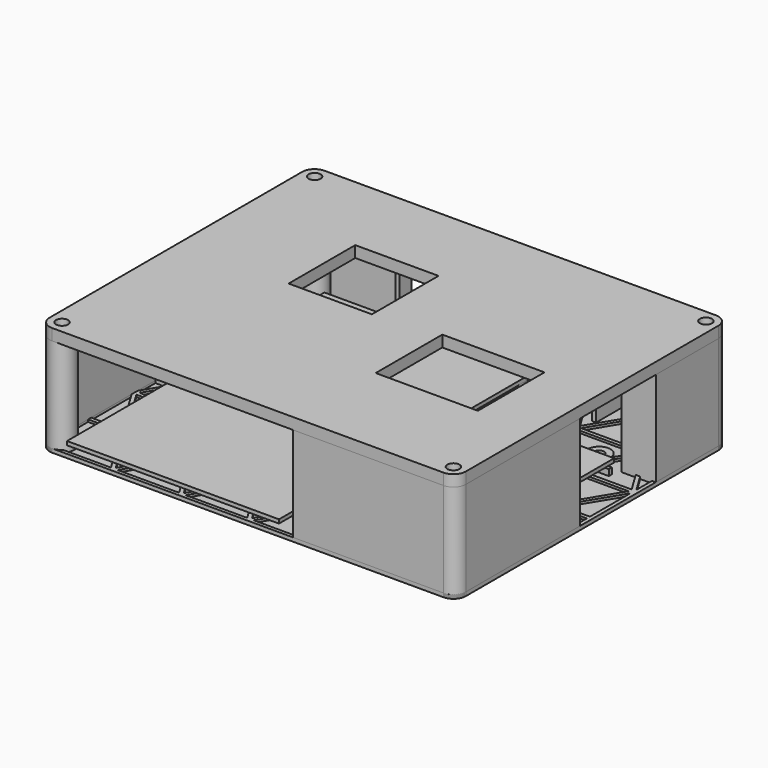
from build123d import *

# Parameters (mm, degrees)
SKETCH001_R                = 3.3
SKETCH001_R_2              = 1.3
EXTRUDE001_DEPTH           = 3
BOX_W                      = 32
BOX_H                      = 43
BOX_DEPTH                  = 1
BOX001_W                   = 56
BOX001_H                   = 85
BOX001_DEPTH               = 1
SKETCH002_R                = 1.3
EXTRUDE002_DEPTH           = 2
SKETCH004_R                = 3.3
SKETCH004_R_2              = 1.3
EXTRUDE004_DEPTH           = 26
EXTRUDE005_DEPTH           = 26
EXTRUDE010_DEPTH           = 5
SKETCH007_R                = 1.6
SKETCH007_W                = 22
SKETCH007_H                = 22
SKETCH007_W_2              = 27
EXTRUDE008_DEPTH           = 10
SKETCH006_W                = 110
SKETCH006_H                = 90
EXTRUDE006_DEPTH           = 0.4
SKETCH008_R                = 3.3
SKETCH008_W                = 24
SKETCH008_H                = 24
SKETCH008_W_2              = 29
EXTRUDE009_DEPTH           = 3
OBJ1            = 90
OBJ2            = 110
EXTRUDE007_DEPTH           = 2.6
EXTRUDE007_PLACEMENT_ANGLE = 90
SKETCH003_R                = 1.3
EXTRUDE003_DEPTH           = 10
SKETCH_W                   = 110
SKETCH_H                   = 90
EXTRUDE_DEPTH              = 0.4
OBJ3               = 90
OBJ4               = 110
OBJ5              = 0.6
OBJ6    = 90


with BuildPart() as extrude001:
    # Sketch001 → Extrude001 (new body)
    with BuildSketch(Plane.XY.offset(1)):
        with Locations((-44, 36)):
            Circle(SKETCH001_R)
        with Locations((-44, 36)):
            Circle(SKETCH001_R_2, mode=Mode.SUBTRACT)
        with Locations((5, 36)):
            Circle(SKETCH001_R)
        with Locations((5, 36)):
            Circle(SKETCH001_R_2, mode=Mode.SUBTRACT)
        with Locations((-44, -22)):
            Circle(SKETCH001_R)
        with Locations((-44, -22)):
            Circle(SKETCH001_R_2, mode=Mode.SUBTRACT)
        with Locations((5, -22)):
            Circle(SKETCH001_R)
        with Locations((5, -22)):
            Circle(SKETCH001_R_2, mode=Mode.SUBTRACT)
    extrude(amount=EXTRUDE001_DEPTH)


with BuildPart() as extrude001_1:
    # Extrude001 placement: moved
    add(extrude001.part.moved(Location((0, 0, -1))))


with BuildPart() as cube:
    # Box → Box (new body)
    with BuildSketch(Plane(origin=(12, -22, 2), x_dir=(1, 0, 0), z_dir=(0, 0, 1))):
        with Locations((16, 21.5)):
            Rectangle(BOX_W, BOX_H)
    extrude(amount=BOX_DEPTH)


with BuildPart() as cube001:
    # Box001 → Box001 (new body)
    with BuildSketch(Plane(origin=(-47.75, -45, 3), x_dir=(1, 0, 0), z_dir=(0, 0, 1))):
        with Locations((28, 42.5)):
            Rectangle(BOX001_W, BOX001_H)
    extrude(amount=BOX001_DEPTH)


with BuildPart() as extrude002:
    # Sketch002 → Extrude002 (new body)
    with BuildSketch(Plane.XY.offset(3)):
        with BuildLine():
            Line((30, 19), (30, 18))
            Line((30, 18), (45, 18))
            Line((45, 18), (45, 19))
            Line((45, 19), (42, 19))
            Line((42, 19), (42, 22.3))
            ThreePointArc((42, 22.3), (39, 25.3), (36, 22.3))
            Line((36, 19), (36, 22.3))
            Line((30, 19), (36, 19))
        make_face()
        with Locations((39, 22.3)):
            Circle(SKETCH002_R, mode=Mode.SUBTRACT)
        with BuildLine():
            Line((13, -19), (45, -19))
            Line((45, -19), (45, -20))
            Line((45, -20), (22, -20))
            Line((22, -20), (22, -23.3))
            ThreePointArc((16, -23.3), (19, -26.3), (22, -23.3))
            Line((16, -23.3), (16, -20))
            Line((16, -20), (13, -20))
            Line((13, -20), (13, -19))
        make_face()
        with Locations((19, -23.3)):
            Circle(SKETCH002_R, mode=Mode.SUBTRACT)
    extrude(amount=EXTRUDE002_DEPTH)


with BuildPart() as extrude002_1:
    # Extrude002 placement: moved
    add(extrude002.part.moved(Location((0, 0, -3))))


with BuildPart() as extrude004:
    # Sketch004 → Extrude004 (new body)
    with BuildSketch(Plane.XY.offset(1)):
        with Locations((-51.7, -41.7)):
            Circle(SKETCH004_R)
        with Locations((-51.7, -41.7)):
            Circle(SKETCH004_R_2, mode=Mode.SUBTRACT)
        with Locations((-51.7, 41.7)):
            Circle(SKETCH004_R)
        with Locations((-51.7, 41.7)):
            Circle(SKETCH004_R_2, mode=Mode.SUBTRACT)
        with Locations((51.7, -41.7)):
            Circle(SKETCH004_R)
        with Locations((51.7, -41.7)):
            Circle(SKETCH004_R_2, mode=Mode.SUBTRACT)
        with Locations((51.7, 41.7)):
            Circle(SKETCH004_R)
        with Locations((51.7, 41.7)):
            Circle(SKETCH004_R_2, mode=Mode.SUBTRACT)
    extrude(amount=EXTRUDE004_DEPTH)


with BuildPart() as extrude004_1:
    # Extrude004 placement: moved
    add(extrude004.part.moved(Location((0, 0, -1))))


with BuildPart() as extrude005:
    # Sketch005 → Extrude005 (new body)
    with BuildSketch(Plane.XY.offset(1)):
        Polygon((-55, -41.7), (-55, 20), (-49, 20), (-49, 19), (-54, 19), (-54, -7), (-49, -7), (-49, -8), (-54, -8), (-54, -41.7), align=None)
        Polygon((-51.7, 45), (-28.7, 45), (-28.7, 41), (-29.7, 41), (-29.7, 44), (-51.7, 44), align=None)
        Polygon((-11, 45), (12, 45), (12, 35), (11, 35), (11, 44), (-10, 44), (-10, 41), (-11, 41), align=None)
        Polygon((27, 45), (51.7, 45), (51.7, 44), (28, 44), (28, 35), (27, 35), align=None)
        Polygon((55, 41.7), (55, 21), (46, 21), (46, 22), (54, 22), (54, 41.7), align=None)
        Polygon((55, -4), (55, -41.7), (54, -41.7), (54, -5), (46, -5), (46, -4), align=None)
        Polygon((51.7, -45), (12, -45), (12, -35), (13, -35), (13, -44), (51.7, -44), align=None)
    extrude(amount=EXTRUDE005_DEPTH)


with BuildPart() as extrude005_1:
    # Extrude005 placement: moved
    add(extrude005.part.moved(Location((0, 0, -1))))


with BuildPart() as border:
    # Sketch009 → Extrude010 (new body)
    with BuildSketch(Plane.XY.offset(29)):
        with BuildLine():
            ThreePointArc((55, 41.7), (54.033452, 44.033452), (51.7, 45))
            Line((51.7, 48), (51.7, 45))
            Line((51.7, 48), (58, 48))
            Line((58, 48), (58, 41.7))
            Line((58, 41.7), (55, 41.7))
        make_face()
        with BuildLine():
            ThreePointArc((51.7, -45), (54.033452, -44.033452), (55, -41.7))
            Line((58, -41.7), (55, -41.7))
            Line((58, -41.7), (58, -48))
            Line((58, -48), (51.7, -48))
            Line((51.7, -48), (51.7, -45))
        make_face()
        with BuildLine():
            ThreePointArc((-51.7, 45), (-54.033452, 44.033452), (-55, 41.7))
            Line((-58, 41.7), (-55, 41.7))
            Line((-58, 48), (-58, 41.7))
            Line((-51.7, 48), (-58, 48))
            Line((-51.7, 48), (-51.7, 45))
        make_face()
        with BuildLine():
            ThreePointArc((-55, -41.7), (-54.033452, -44.033452), (-51.7, -45))
            Line((-51.7, -48), (-51.7, -45))
            Line((-51.7, -48), (-58, -48))
            Line((-58, -48), (-58, -41.7))
            Line((-58, -41.7), (-55, -41.7))
        make_face()
    extrude(amount=-EXTRUDE010_DEPTH)


with BuildPart() as body:
    # Body base: copy of border
    add(border.part)


with BuildPart() as body_1:
    # Body placement: moved
    add(body.part.moved(Location((0, 0, 1))))


with BuildPart() as fusion001:
    # Sketch007 → Extrude008 (new body)
    with BuildSketch(Plane.XY.offset(29)):
        with Locations((-51.7, 41.7)):
            Circle(SKETCH007_R)
        with Locations((-51.7, -41.7)):
            Circle(SKETCH007_R)
        with Locations((51.7, 41.7)):
            Circle(SKETCH007_R)
        with Locations((51.7, -41.7)):
            Circle(SKETCH007_R)
        with Locations((-15, 12)):
            Rectangle(SKETCH007_W, SKETCH007_H)
        with Locations((26.5, -8)):
            Rectangle(SKETCH007_W_2, SKETCH007_H)
    extrude(amount=-EXTRUDE008_DEPTH)


with BuildPart() as fusion001_1:
    # Extrude008 placement: moved
    add(fusion001.part.moved(Location((0, 0, 1))))

    # Fusion001: union Body
    add(body_1.part)


with BuildPart() as extrude006:
    # Sketch006 → Extrude006 (new body)
    with BuildSketch(Plane.XY.offset(27)):
        Rectangle(SKETCH006_W, SKETCH006_H)
    extrude(amount=-EXTRUDE006_DEPTH)


with BuildPart() as extrude006_1:
    # Extrude006 placement: moved
    add(extrude006.part.moved(Location((0, 0, 2))))


with BuildPart() as extrude009:
    # Sketch008 → Extrude009 (new body)
    with BuildSketch(Plane.XY.offset(29)):
        with Locations((-51.7, 41.7)):
            Circle(SKETCH008_R)
        with Locations((-51.7, -41.7)):
            Circle(SKETCH008_R)
        with Locations((51.7, 41.7)):
            Circle(SKETCH008_R)
        with Locations((51.7, -41.7)):
            Circle(SKETCH008_R)
        with Locations((-15, 12)):
            Rectangle(SKETCH008_W, SKETCH008_H)
        with Locations((26.5, -8)):
            Rectangle(SKETCH008_W_2, SKETCH008_H)
    extrude(amount=-EXTRUDE009_DEPTH)


with BuildPart() as top:
    with BuildSketch(Plane.XY.offset(20)):
        with Locations((45, 55)):
            Rectangle(OBJ1, OBJ2)
        Polygon((1.4, 1), (14.766667, 1), (14.766667, 9.133975), align=None, mode=Mode.SUBTRACT)
        Polygon((1.4, 109), (14.766667, 109), (14.766667, 100.866025), align=None, mode=Mode.SUBTRACT)
        Polygon((29.133333, 1), (15.766667, 1), (15.766667, 9.133975), align=None, mode=Mode.SUBTRACT)
        Polygon((29.133333, 109), (15.766667, 109), (15.766667, 100.866025), align=None, mode=Mode.SUBTRACT)
        Polygon((31.133333, 1), (44.5, 1), (44.5, 9.133975), align=None, mode=Mode.SUBTRACT)
        Polygon((31.133333, 109), (44.5, 109), (44.5, 100.866025), align=None, mode=Mode.SUBTRACT)
        Polygon((58.866667, 1), (45.5, 1), (45.5, 9.133975), align=None, mode=Mode.SUBTRACT)
        Polygon((58.866667, 109), (45.5, 109), (45.5, 100.866025), align=None, mode=Mode.SUBTRACT)
        Polygon((60.866667, 1), (74.233333, 1), (74.233333, 9.133975), align=None, mode=Mode.SUBTRACT)
        Polygon((60.866667, 109), (74.233333, 109), (74.233333, 100.866025), align=None, mode=Mode.SUBTRACT)
        Polygon((88.6, 1), (75.233333, 1), (75.233333, 9.133975), align=None, mode=Mode.SUBTRACT)
        Polygon((88.6, 109), (75.233333, 109), (75.233333, 100.866025), align=None, mode=Mode.SUBTRACT)
        Polygon((0.9, 1.866025), (0.9, 18.133975), (14.266667, 10), align=None, mode=Mode.SUBTRACT)
        Polygon((14.766667, 10.866025), (14.766667, 27.133975), (1.4, 19), align=None, mode=Mode.SUBTRACT)
        Polygon((29.633333, 1.866025), (29.633333, 18.133975), (16.266667, 10), align=None, mode=Mode.SUBTRACT)
        Polygon((15.766667, 10.866025), (15.766667, 27.133975), (29.133333, 19), align=None, mode=Mode.SUBTRACT)
        Polygon((30.633333, 1.866025), (30.633333, 18.133975), (44, 10), align=None, mode=Mode.SUBTRACT)
        Polygon((44.5, 10.866025), (44.5, 27.133975), (31.133333, 19), align=None, mode=Mode.SUBTRACT)
        Polygon((59.366667, 1.866025), (59.366667, 18.133975), (46, 10), align=None, mode=Mode.SUBTRACT)
        Polygon((45.5, 10.866025), (45.5, 27.133975), (58.866667, 19), align=None, mode=Mode.SUBTRACT)
        Polygon((60.366667, 1.866025), (60.366667, 18.133975), (73.733333, 10), align=None, mode=Mode.SUBTRACT)
        Polygon((74.233333, 10.866025), (74.233333, 27.133975), (60.866667, 19), align=None, mode=Mode.SUBTRACT)
        Polygon((89.1, 1.866025), (89.1, 18.133975), (75.733333, 10), align=None, mode=Mode.SUBTRACT)
        Polygon((75.233333, 10.866025), (75.233333, 27.133975), (88.6, 19), align=None, mode=Mode.SUBTRACT)
        Polygon((0.9, 19.866025), (0.9, 36.133975), (14.266667, 28), align=None, mode=Mode.SUBTRACT)
        Polygon((14.766667, 28.866025), (14.766667, 45.133975), (1.4, 37), align=None, mode=Mode.SUBTRACT)
        Polygon((29.633333, 19.866025), (29.633333, 36.133975), (16.266667, 28), align=None, mode=Mode.SUBTRACT)
        Polygon((15.766667, 28.866025), (15.766667, 45.133975), (29.133333, 37), align=None, mode=Mode.SUBTRACT)
        Polygon((30.633333, 19.866025), (30.633333, 36.133975), (44, 28), align=None, mode=Mode.SUBTRACT)
        Polygon((44.5, 28.866025), (44.5, 45.133975), (31.133333, 37), align=None, mode=Mode.SUBTRACT)
        Polygon((59.366667, 19.866025), (59.366667, 36.133975), (46, 28), align=None, mode=Mode.SUBTRACT)
        Polygon((45.5, 28.866025), (45.5, 45.133975), (58.866667, 37), align=None, mode=Mode.SUBTRACT)
        Polygon((60.366667, 19.866025), (60.366667, 36.133975), (73.733333, 28), align=None, mode=Mode.SUBTRACT)
        Polygon((74.233333, 28.866025), (74.233333, 45.133975), (60.866667, 37), align=None, mode=Mode.SUBTRACT)
        Polygon((89.1, 19.866025), (89.1, 36.133975), (75.733333, 28), align=None, mode=Mode.SUBTRACT)
        Polygon((75.233333, 28.866025), (75.233333, 45.133975), (88.6, 37), align=None, mode=Mode.SUBTRACT)
        Polygon((0.9, 37.866025), (0.9, 54.133975), (14.266667, 46), align=None, mode=Mode.SUBTRACT)
        Polygon((14.766667, 46.866025), (14.766667, 63.133975), (1.4, 55), align=None, mode=Mode.SUBTRACT)
        Polygon((29.633333, 37.866025), (29.633333, 54.133975), (16.266667, 46), align=None, mode=Mode.SUBTRACT)
        Polygon((15.766667, 46.866025), (15.766667, 63.133975), (29.133333, 55), align=None, mode=Mode.SUBTRACT)
        Polygon((30.633333, 37.866025), (30.633333, 54.133975), (44, 46), align=None, mode=Mode.SUBTRACT)
        Polygon((44.5, 46.866025), (44.5, 63.133975), (31.133333, 55), align=None, mode=Mode.SUBTRACT)
        Polygon((59.366667, 37.866025), (59.366667, 54.133975), (46, 46), align=None, mode=Mode.SUBTRACT)
        Polygon((45.5, 46.866025), (45.5, 63.133975), (58.866667, 55), align=None, mode=Mode.SUBTRACT)
        Polygon((60.366667, 37.866025), (60.366667, 54.133975), (73.733333, 46), align=None, mode=Mode.SUBTRACT)
        Polygon((74.233333, 46.866025), (74.233333, 63.133975), (60.866667, 55), align=None, mode=Mode.SUBTRACT)
        Polygon((89.1, 37.866025), (89.1, 54.133975), (75.733333, 46), align=None, mode=Mode.SUBTRACT)
        Polygon((75.233333, 46.866025), (75.233333, 63.133975), (88.6, 55), align=None, mode=Mode.SUBTRACT)
        Polygon((0.9, 55.866025), (0.9, 72.133975), (14.266667, 64), align=None, mode=Mode.SUBTRACT)
        Polygon((14.766667, 64.866025), (14.766667, 81.133975), (1.4, 73), align=None, mode=Mode.SUBTRACT)
        Polygon((29.633333, 55.866025), (29.633333, 72.133975), (16.266667, 64), align=None, mode=Mode.SUBTRACT)
        Polygon((15.766667, 64.866025), (15.766667, 81.133975), (29.133333, 73), align=None, mode=Mode.SUBTRACT)
        Polygon((30.633333, 55.866025), (30.633333, 72.133975), (44, 64), align=None, mode=Mode.SUBTRACT)
        Polygon((44.5, 64.866025), (44.5, 81.133975), (31.133333, 73), align=None, mode=Mode.SUBTRACT)
        Polygon((59.366667, 55.866025), (59.366667, 72.133975), (46, 64), align=None, mode=Mode.SUBTRACT)
        Polygon((45.5, 64.866025), (45.5, 81.133975), (58.866667, 73), align=None, mode=Mode.SUBTRACT)
        Polygon((60.366667, 55.866025), (60.366667, 72.133975), (73.733333, 64), align=None, mode=Mode.SUBTRACT)
        Polygon((74.233333, 64.866025), (74.233333, 81.133975), (60.866667, 73), align=None, mode=Mode.SUBTRACT)
        Polygon((89.1, 55.866025), (89.1, 72.133975), (75.733333, 64), align=None, mode=Mode.SUBTRACT)
        Polygon((75.233333, 64.866025), (75.233333, 81.133975), (88.6, 73), align=None, mode=Mode.SUBTRACT)
        Polygon((0.9, 73.866025), (0.9, 90.133975), (14.266667, 82), align=None, mode=Mode.SUBTRACT)
        Polygon((14.766667, 82.866025), (14.766667, 99.133975), (1.4, 91), align=None, mode=Mode.SUBTRACT)
        Polygon((29.633333, 73.866025), (29.633333, 90.133975), (16.266667, 82), align=None, mode=Mode.SUBTRACT)
        Polygon((15.766667, 82.866025), (15.766667, 99.133975), (29.133333, 91), align=None, mode=Mode.SUBTRACT)
        Polygon((30.633333, 73.866025), (30.633333, 90.133975), (44, 82), align=None, mode=Mode.SUBTRACT)
        Polygon((44.5, 82.866025), (44.5, 99.133975), (31.133333, 91), align=None, mode=Mode.SUBTRACT)
        Polygon((59.366667, 73.866025), (59.366667, 90.133975), (46, 82), align=None, mode=Mode.SUBTRACT)
        Polygon((45.5, 82.866025), (45.5, 99.133975), (58.866667, 91), align=None, mode=Mode.SUBTRACT)
        Polygon((60.366667, 73.866025), (60.366667, 90.133975), (73.733333, 82), align=None, mode=Mode.SUBTRACT)
        Polygon((74.233333, 82.866025), (74.233333, 99.133975), (60.866667, 91), align=None, mode=Mode.SUBTRACT)
        Polygon((89.1, 73.866025), (89.1, 90.133975), (75.733333, 82), align=None, mode=Mode.SUBTRACT)
        Polygon((75.233333, 82.866025), (75.233333, 99.133975), (88.6, 91), align=None, mode=Mode.SUBTRACT)
        Polygon((0.9, 91.866025), (0.9, 108.133975), (14.266667, 100), align=None, mode=Mode.SUBTRACT)
        Polygon((29.633333, 91.866025), (29.633333, 108.133975), (16.266667, 100), align=None, mode=Mode.SUBTRACT)
        Polygon((30.633333, 91.866025), (30.633333, 108.133975), (44, 100), align=None, mode=Mode.SUBTRACT)
        Polygon((59.366667, 91.866025), (59.366667, 108.133975), (46, 100), align=None, mode=Mode.SUBTRACT)
        Polygon((60.366667, 91.866025), (60.366667, 108.133975), (73.733333, 100), align=None, mode=Mode.SUBTRACT)
        Polygon((89.1, 91.866025), (89.1, 108.133975), (75.733333, 100), align=None, mode=Mode.SUBTRACT)
    extrude(amount=-EXTRUDE007_DEPTH)


with BuildPart() as top_1:
    # Extrude007 placement: moved
    add(top.part.moved(Location((-55, 45, 8.6))).rotate(Axis((-55, 45, 8.6), (0, 0, -1)), EXTRUDE007_PLACEMENT_ANGLE))

    # Fusion: union Extrude006, Extrude009
    add(extrude006_1.part)
    add(extrude009.part)

    # Cut: cut Fusion001
    add(fusion001_1.part, mode=Mode.SUBTRACT)


with BuildPart() as body001:
    # Body001 base: copy of border
    add(border.part)


with BuildPart() as body001_1:
    # Body001 placement: moved
    add(body001.part.moved(Location((0, 0, -26))))


with BuildPart() as fusion002:
    # Sketch003 → Extrude003 (new body)
    with BuildSketch(Plane.XY.offset(1)):
        with Locations((-44, 36)):
            Circle(SKETCH003_R)
        with Locations((5, 36)):
            Circle(SKETCH003_R)
        with Locations((-44, -22)):
            Circle(SKETCH003_R)
        with Locations((5, -22)):
            Circle(SKETCH003_R)
        with Locations((19, -23.3)):
            Circle(SKETCH003_R)
        with Locations((39, 22.3)):
            Circle(SKETCH003_R)
    extrude(amount=-EXTRUDE003_DEPTH)


with BuildPart() as fusion002_1:
    # Extrude003 placement: moved
    add(fusion002.part.moved(Location((0, 0, 5))))

    # Fusion002: union Body001
    add(body001_1.part)


with BuildPart() as extrude_body:
    # Sketch → Extrude (new body)
    with BuildSketch(Plane.XY):
        Rectangle(SKETCH_W, SKETCH_H)
    extrude(amount=EXTRUDE_DEPTH)


with BuildPart() as cut001:
    with BuildSketch(Plane.XY.offset(20)):
        with Locations((45, 55)):
            Rectangle(OBJ3, OBJ4)
        Polygon((1.4, 1), (14.766667, 1), (14.766667, 9.133975), align=None, mode=Mode.SUBTRACT)
        Polygon((1.4, 109), (14.766667, 109), (14.766667, 100.866025), align=None, mode=Mode.SUBTRACT)
        Polygon((29.133333, 1), (15.766667, 1), (15.766667, 9.133975), align=None, mode=Mode.SUBTRACT)
        Polygon((29.133333, 109), (15.766667, 109), (15.766667, 100.866025), align=None, mode=Mode.SUBTRACT)
        Polygon((31.133333, 1), (44.5, 1), (44.5, 9.133975), align=None, mode=Mode.SUBTRACT)
        Polygon((31.133333, 109), (44.5, 109), (44.5, 100.866025), align=None, mode=Mode.SUBTRACT)
        Polygon((58.866667, 1), (45.5, 1), (45.5, 9.133975), align=None, mode=Mode.SUBTRACT)
        Polygon((58.866667, 109), (45.5, 109), (45.5, 100.866025), align=None, mode=Mode.SUBTRACT)
        Polygon((60.866667, 1), (74.233333, 1), (74.233333, 9.133975), align=None, mode=Mode.SUBTRACT)
        Polygon((60.866667, 109), (74.233333, 109), (74.233333, 100.866025), align=None, mode=Mode.SUBTRACT)
        Polygon((88.6, 1), (75.233333, 1), (75.233333, 9.133975), align=None, mode=Mode.SUBTRACT)
        Polygon((88.6, 109), (75.233333, 109), (75.233333, 100.866025), align=None, mode=Mode.SUBTRACT)
        Polygon((0.9, 1.866025), (0.9, 18.133975), (14.266667, 10), align=None, mode=Mode.SUBTRACT)
        Polygon((14.766667, 10.866025), (14.766667, 27.133975), (1.4, 19), align=None, mode=Mode.SUBTRACT)
        Polygon((29.633333, 1.866025), (29.633333, 18.133975), (16.266667, 10), align=None, mode=Mode.SUBTRACT)
        Polygon((15.766667, 10.866025), (15.766667, 27.133975), (29.133333, 19), align=None, mode=Mode.SUBTRACT)
        Polygon((30.633333, 1.866025), (30.633333, 18.133975), (44, 10), align=None, mode=Mode.SUBTRACT)
        Polygon((44.5, 10.866025), (44.5, 27.133975), (31.133333, 19), align=None, mode=Mode.SUBTRACT)
        Polygon((59.366667, 1.866025), (59.366667, 18.133975), (46, 10), align=None, mode=Mode.SUBTRACT)
        Polygon((45.5, 10.866025), (45.5, 27.133975), (58.866667, 19), align=None, mode=Mode.SUBTRACT)
        Polygon((60.366667, 1.866025), (60.366667, 18.133975), (73.733333, 10), align=None, mode=Mode.SUBTRACT)
        Polygon((74.233333, 10.866025), (74.233333, 27.133975), (60.866667, 19), align=None, mode=Mode.SUBTRACT)
        Polygon((89.1, 1.866025), (89.1, 18.133975), (75.733333, 10), align=None, mode=Mode.SUBTRACT)
        Polygon((75.233333, 10.866025), (75.233333, 27.133975), (88.6, 19), align=None, mode=Mode.SUBTRACT)
        Polygon((0.9, 19.866025), (0.9, 36.133975), (14.266667, 28), align=None, mode=Mode.SUBTRACT)
        Polygon((14.766667, 28.866025), (14.766667, 45.133975), (1.4, 37), align=None, mode=Mode.SUBTRACT)
        Polygon((29.633333, 19.866025), (29.633333, 36.133975), (16.266667, 28), align=None, mode=Mode.SUBTRACT)
        Polygon((15.766667, 28.866025), (15.766667, 45.133975), (29.133333, 37), align=None, mode=Mode.SUBTRACT)
        Polygon((30.633333, 19.866025), (30.633333, 36.133975), (44, 28), align=None, mode=Mode.SUBTRACT)
        Polygon((44.5, 28.866025), (44.5, 45.133975), (31.133333, 37), align=None, mode=Mode.SUBTRACT)
        Polygon((59.366667, 19.866025), (59.366667, 36.133975), (46, 28), align=None, mode=Mode.SUBTRACT)
        Polygon((45.5, 28.866025), (45.5, 45.133975), (58.866667, 37), align=None, mode=Mode.SUBTRACT)
        Polygon((60.366667, 19.866025), (60.366667, 36.133975), (73.733333, 28), align=None, mode=Mode.SUBTRACT)
        Polygon((74.233333, 28.866025), (74.233333, 45.133975), (60.866667, 37), align=None, mode=Mode.SUBTRACT)
        Polygon((89.1, 19.866025), (89.1, 36.133975), (75.733333, 28), align=None, mode=Mode.SUBTRACT)
        Polygon((75.233333, 28.866025), (75.233333, 45.133975), (88.6, 37), align=None, mode=Mode.SUBTRACT)
        Polygon((0.9, 37.866025), (0.9, 54.133975), (14.266667, 46), align=None, mode=Mode.SUBTRACT)
        Polygon((14.766667, 46.866025), (14.766667, 63.133975), (1.4, 55), align=None, mode=Mode.SUBTRACT)
        Polygon((29.633333, 37.866025), (29.633333, 54.133975), (16.266667, 46), align=None, mode=Mode.SUBTRACT)
        Polygon((15.766667, 46.866025), (15.766667, 63.133975), (29.133333, 55), align=None, mode=Mode.SUBTRACT)
        Polygon((30.633333, 37.866025), (30.633333, 54.133975), (44, 46), align=None, mode=Mode.SUBTRACT)
        Polygon((44.5, 46.866025), (44.5, 63.133975), (31.133333, 55), align=None, mode=Mode.SUBTRACT)
        Polygon((59.366667, 37.866025), (59.366667, 54.133975), (46, 46), align=None, mode=Mode.SUBTRACT)
        Polygon((45.5, 46.866025), (45.5, 63.133975), (58.866667, 55), align=None, mode=Mode.SUBTRACT)
        Polygon((60.366667, 37.866025), (60.366667, 54.133975), (73.733333, 46), align=None, mode=Mode.SUBTRACT)
        Polygon((74.233333, 46.866025), (74.233333, 63.133975), (60.866667, 55), align=None, mode=Mode.SUBTRACT)
        Polygon((89.1, 37.866025), (89.1, 54.133975), (75.733333, 46), align=None, mode=Mode.SUBTRACT)
        Polygon((75.233333, 46.866025), (75.233333, 63.133975), (88.6, 55), align=None, mode=Mode.SUBTRACT)
        Polygon((0.9, 55.866025), (0.9, 72.133975), (14.266667, 64), align=None, mode=Mode.SUBTRACT)
        Polygon((14.766667, 64.866025), (14.766667, 81.133975), (1.4, 73), align=None, mode=Mode.SUBTRACT)
        Polygon((29.633333, 55.866025), (29.633333, 72.133975), (16.266667, 64), align=None, mode=Mode.SUBTRACT)
        Polygon((15.766667, 64.866025), (15.766667, 81.133975), (29.133333, 73), align=None, mode=Mode.SUBTRACT)
        Polygon((30.633333, 55.866025), (30.633333, 72.133975), (44, 64), align=None, mode=Mode.SUBTRACT)
        Polygon((44.5, 64.866025), (44.5, 81.133975), (31.133333, 73), align=None, mode=Mode.SUBTRACT)
        Polygon((59.366667, 55.866025), (59.366667, 72.133975), (46, 64), align=None, mode=Mode.SUBTRACT)
        Polygon((45.5, 64.866025), (45.5, 81.133975), (58.866667, 73), align=None, mode=Mode.SUBTRACT)
        Polygon((60.366667, 55.866025), (60.366667, 72.133975), (73.733333, 64), align=None, mode=Mode.SUBTRACT)
        Polygon((74.233333, 64.866025), (74.233333, 81.133975), (60.866667, 73), align=None, mode=Mode.SUBTRACT)
        Polygon((89.1, 55.866025), (89.1, 72.133975), (75.733333, 64), align=None, mode=Mode.SUBTRACT)
        Polygon((75.233333, 64.866025), (75.233333, 81.133975), (88.6, 73), align=None, mode=Mode.SUBTRACT)
        Polygon((0.9, 73.866025), (0.9, 90.133975), (14.266667, 82), align=None, mode=Mode.SUBTRACT)
        Polygon((14.766667, 82.866025), (14.766667, 99.133975), (1.4, 91), align=None, mode=Mode.SUBTRACT)
        Polygon((29.633333, 73.866025), (29.633333, 90.133975), (16.266667, 82), align=None, mode=Mode.SUBTRACT)
        Polygon((15.766667, 82.866025), (15.766667, 99.133975), (29.133333, 91), align=None, mode=Mode.SUBTRACT)
        Polygon((30.633333, 73.866025), (30.633333, 90.133975), (44, 82), align=None, mode=Mode.SUBTRACT)
        Polygon((44.5, 82.866025), (44.5, 99.133975), (31.133333, 91), align=None, mode=Mode.SUBTRACT)
        Polygon((59.366667, 73.866025), (59.366667, 90.133975), (46, 82), align=None, mode=Mode.SUBTRACT)
        Polygon((45.5, 82.866025), (45.5, 99.133975), (58.866667, 91), align=None, mode=Mode.SUBTRACT)
        Polygon((60.366667, 73.866025), (60.366667, 90.133975), (73.733333, 82), align=None, mode=Mode.SUBTRACT)
        Polygon((74.233333, 82.866025), (74.233333, 99.133975), (60.866667, 91), align=None, mode=Mode.SUBTRACT)
        Polygon((89.1, 73.866025), (89.1, 90.133975), (75.733333, 82), align=None, mode=Mode.SUBTRACT)
        Polygon((75.233333, 82.866025), (75.233333, 99.133975), (88.6, 91), align=None, mode=Mode.SUBTRACT)
        Polygon((0.9, 91.866025), (0.9, 108.133975), (14.266667, 100), align=None, mode=Mode.SUBTRACT)
        Polygon((29.633333, 91.866025), (29.633333, 108.133975), (16.266667, 100), align=None, mode=Mode.SUBTRACT)
        Polygon((30.633333, 91.866025), (30.633333, 108.133975), (44, 100), align=None, mode=Mode.SUBTRACT)
        Polygon((59.366667, 91.866025), (59.366667, 108.133975), (46, 100), align=None, mode=Mode.SUBTRACT)
        Polygon((60.366667, 91.866025), (60.366667, 108.133975), (73.733333, 100), align=None, mode=Mode.SUBTRACT)
        Polygon((89.1, 91.866025), (89.1, 108.133975), (75.733333, 100), align=None, mode=Mode.SUBTRACT)
    extrude(amount=OBJ5)


with BuildPart() as cut001_1:
    add(cut001.part.moved(Location((-55, 45, -19.6))).rotate(Axis((-55, 45, -19.6), (0, 0, -1)), OBJ6))

    # Fusion003: union Extrude body
    add(extrude_body.part)

    # Cut001: cut Fusion002
    add(fusion002_1.part, mode=Mode.SUBTRACT)


solid = Compound([extrude001_1.part, cube.part, cube001.part, extrude002_1.part, extrude004_1.part, extrude005_1.part, top_1.part, cut001_1.part])
